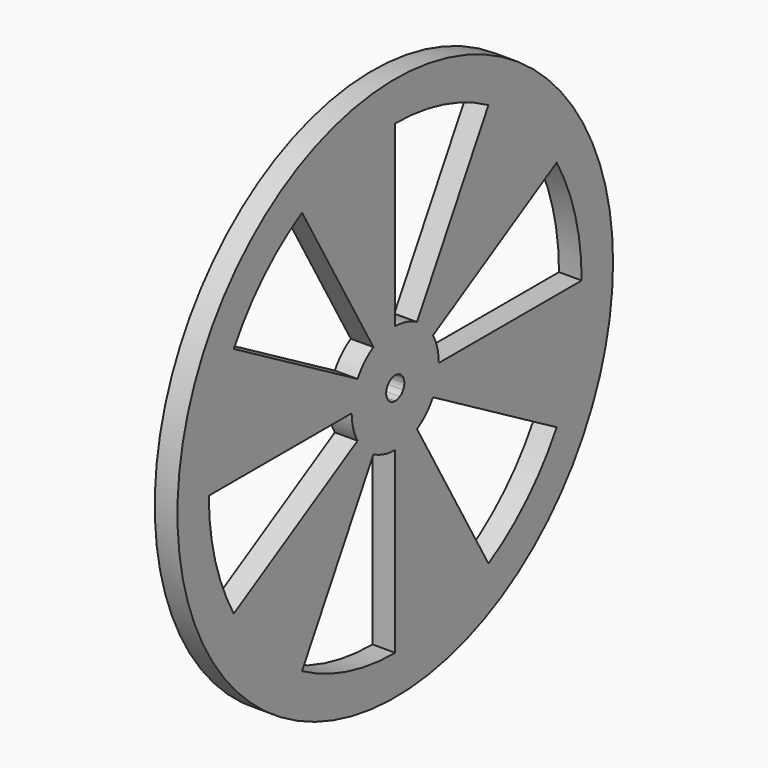
from build123d import *

# Parameters (mm, degrees)
F0_R     = 38.1
F1_DEPTH = 3.175


with BuildPart() as f1:
    # F0 (on Right) → F1 (new body)
    with BuildSketch(Plane.YZ):
        with Locations((47.9661803454, 0)):
            Circle(F0_R)
        with BuildLine():
            ThreePointArc((19.7231410051, 16.3061263658), (24.9058352891, 23.0603450563), (31.6600539796, 28.2430393403))
            Line((31.6600539796, 28.2430393403), (44.1561803454, 6.5991135768))
            Line((44.1561803454, 6.5991135768), (47.1724303454, 1.3748153285))
            ThreePointArc((47.1724303454, 1.3748153285), (47.5553051113, 1.5334072492), (47.9661803454, 1.5875))
            Line((47.9661803454, 1.5875), (47.9661803454, 7.62))
            Line((47.9661803454, 7.62), (47.9661803454, 32.6122527317))
            ThreePointArc((47.9661803454, 32.6122527317), (56.406852456, 31.501017167), (64.2723067112, 28.2430393403))
            Line((64.2723067112, 28.2430393403), (51.7761803454, 6.5991135768))
            Line((51.7761803454, 6.5991135768), (48.7599303454, 1.3748153285))
            ThreePointArc((48.7599303454, 1.3748153285), (49.0887123605, 1.1225320151), (49.3409956739, 0.79375))
            Line((49.3409956739, 0.79375), (54.5652939222, 3.81))
            Line((54.5652939222, 3.81), (76.2092196857, 16.3061263658))
            ThreePointArc((76.2092196857, 16.3061263658), (79.4671975124, 8.4406721107), (80.5784330771, 0))
            Line((80.5784330771, 0), (55.5861803454, 0))
            Line((55.5861803454, 0), (49.5536803454, 0))
            ThreePointArc((49.5536803454, 0), (49.4995875946, -0.4108752341), (49.3409956739, -0.79375))
            Line((49.3409956739, -0.79375), (54.5652939222, -3.81))
            Line((54.5652939222, -3.81), (76.2092196857, -16.3061263658))
            ThreePointArc((76.2092196857, -16.3061263658), (71.0265254017, -23.0603450563), (64.2723067112, -28.2430393403))
            Line((64.2723067112, -28.2430393403), (51.7761803454, -6.5991135768))
            Line((51.7761803454, -6.5991135768), (48.7599303454, -1.3748153285))
            ThreePointArc((48.7599303454, -1.3748153285), (48.3770555795, -1.5334072492), (47.9661803454, -1.5875))
            Line((47.9661803454, -1.5875), (47.9661803454, -7.62))
            Line((47.9661803454, -7.62), (47.9661803454, -32.6122527317))
            ThreePointArc((47.9661803454, -32.6122527317), (39.5255082347, -31.501017167), (31.6600539796, -28.2430393403))
            Line((31.6600539796, -28.2430393403), (44.1561803454, -6.5991135768))
            Line((44.1561803454, -6.5991135768), (47.1724303454, -1.3748153285))
            ThreePointArc((47.1724303454, -1.3748153285), (46.8436483303, -1.1225320151), (46.5913650169, -0.79375))
            Line((46.5913650169, -0.79375), (41.3670667686, -3.81))
            Line((41.3670667686, -3.81), (19.7231410051, -16.3061263658))
            ThreePointArc((19.7231410051, -16.3061263658), (16.4651631784, -8.4406721107), (15.3539276137, 0))
            Line((15.3539276137, 0), (40.3461803454, 0))
            Line((40.3461803454, 0), (46.3786803454, 0))
            ThreePointArc((46.3786803454, 0), (46.4327730962, 0.4108752341), (46.5913650169, 0.79375))
            Line((46.5913650169, 0.79375), (41.3670667686, 3.81))
            Line((41.3670667686, 3.81), (19.7231410051, 16.3061263658))
        make_face(mode=Mode.SUBTRACT)
        with BuildLine():
            Line((54.5652939222, -3.81), (49.3409956739, -0.79375))
            ThreePointArc((49.3409956739, -0.79375), (49.0887123605, -1.1225320151), (48.7599303454, -1.3748153285))
            Line((48.7599303454, -1.3748153285), (51.7761803454, -6.5991135768))
            ThreePointArc((51.7761803454, -6.5991135768), (53.354334018, -5.3881536726), (54.5652939222, -3.81))
        make_face()
        with BuildLine():
            Line((47.9661803454, -7.62), (47.9661803454, -1.5875))
            ThreePointArc((47.9661803454, -1.5875), (47.5553051113, -1.5334072492), (47.1724303454, -1.3748153285))
            Line((47.1724303454, -1.3748153285), (44.1561803454, -6.5991135768))
            ThreePointArc((44.1561803454, -6.5991135768), (45.9939792217, -7.3603547963), (47.9661803454, -7.62))
        make_face()
        with BuildLine():
            ThreePointArc((46.5913650169, -0.79375), (46.4327730962, -0.4108752341), (46.3786803454, 0))
            Line((46.3786803454, 0), (40.3461803454, 0))
            ThreePointArc((40.3461803454, 0), (40.6058255491, -1.9722011237), (41.3670667686, -3.81))
            Line((41.3670667686, -3.81), (46.5913650169, -0.79375))
        make_face()
        with BuildLine():
            Line((47.1724303454, 1.3748153285), (44.1561803454, 6.5991135768))
            ThreePointArc((44.1561803454, 6.5991135768), (42.5780266728, 5.3881536726), (41.3670667686, 3.81))
            Line((41.3670667686, 3.81), (46.5913650169, 0.79375))
            ThreePointArc((46.5913650169, 0.79375), (46.8436483303, 1.1225320151), (47.1724303454, 1.3748153285))
        make_face()
        with BuildLine():
            Line((47.9661803454, 7.62), (47.9661803454, 1.5875))
            ThreePointArc((47.9661803454, 1.5875), (48.3770555795, 1.5334072492), (48.7599303454, 1.3748153285))
            Line((48.7599303454, 1.3748153285), (51.7761803454, 6.5991135768))
            ThreePointArc((51.7761803454, 6.5991135768), (49.9383814691, 7.3603547963), (47.9661803454, 7.62))
        make_face()
        with BuildLine():
            ThreePointArc((49.3409956739, 0.79375), (49.4995875946, 0.4108752341), (49.5536803454, 0))
            Line((49.5536803454, 0), (55.5861803454, 0))
            ThreePointArc((55.5861803454, 0), (55.3265351417, 1.9722011237), (54.5652939222, 3.81))
            Line((54.5652939222, 3.81), (49.3409956739, 0.79375))
        make_face()
    extrude(amount=F1_DEPTH)


solid = f1.part
